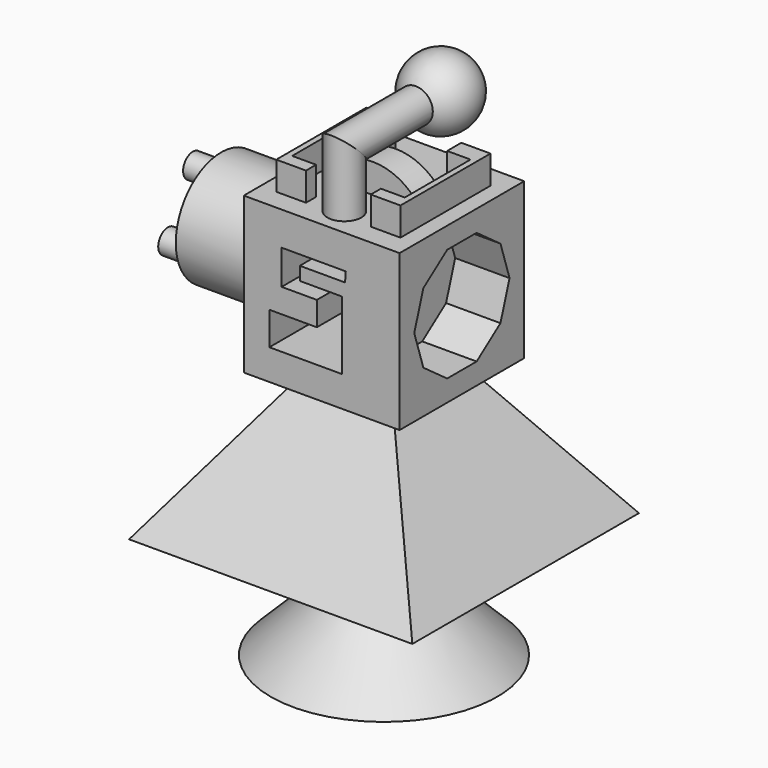
from build123d import *

# Parameters (mm, degrees)
F0_W      = 139.7
F0_H      = 139.7
F1_DEPTH  = 69.85
F3_DEPTH  = 69.85
F5_DEPTH  = 12.7
F6_R      = 50.8
F7_DEPTH  = 76.2
F9_DEPTH  = 48.768
F10_R     = 15.24
F13_W     = 76.2
F13_H     = 76.2
F15_W     = 254
F15_H     = 254
F22_DEPTH = 25.4
F23_R     = 10.8538573116
F24_DEPTH = 25.4


with BuildPart() as f1:
    # F0 (on Front) → F1 (new body, symmetric)
    with BuildSketch(Plane.XZ):
        Rectangle(F0_W, F0_H)
    extrude(amount=F1_DEPTH, both=True)

    # F2 (on Front) → F3 (cut, symmetric)
    with BuildSketch(Plane.XZ):
        Polygon((20.9614150226, 30.7766851038), (21.6268599033, 39.7601500154), (-35.9338596463, 39.7601500154), (-35.9338596463, 8.8171046227), (-4.3253740296, 8.8171046227), (-4.3253740296, -12.8097543493), (-46.9136498868, -12.8097543493), (-46.9136498868, -42.4219146371), (18.2996485382, -42.4219146371), (18.2996485382, 18.7987312675), (-19.6305345744, 18.7987312675), (-19.6305345744, 30.7766851038), align=None)
    extrude(amount=F3_DEPTH, both=True, mode=Mode.SUBTRACT)

    # F6 (on face) → F7 (join)
    with BuildSketch(Plane(origin=(-69.85, 0, 0), x_dir=(0, -1, 0), z_dir=(-1, 0, 0))):
        Circle(F6_R)
    extrude(amount=F7_DEPTH)

    # F8 (on face) → F9 (cut)
    with BuildSketch(Plane.YZ.offset(69.85)):
        Polygon((16.5059205686, -50.8), (43.2130610643, -31.3961266285), (53.4142809913, 0), (43.2130610643, 31.3961266285), (16.5059205686, 50.8), (-16.5059205686, 50.8), (-43.2130610643, 31.3961266285), (-53.4142809913, 0), (-43.2130610643, -31.3961266285), (-16.5059205686, -50.8), align=None)
    extrude(amount=-F9_DEPTH, mode=Mode.SUBTRACT)

    # F12: sweep along a path in F11
    with BuildLine(Plane.YZ) as f12_path:
        Line((-44.45, 69.9766054749), (-44.45, 120.7766054749))
        Line((-44.45, 120.7766054749), (44.45, 120.7766054749))
    # F10 (on face) → F12 (sweep)
    with BuildSketch(Plane.XY.offset(69.85)):
        with Locations((0, -44.45)):
            Circle(F10_R)
    sweep(path=f12_path.line, transition=Transition.RIGHT)

    # F13 (on face) → F16 section 0
    with BuildSketch(Plane(origin=(0, 0, -69.85), x_dir=(1, 0, 0), z_dir=(0, 0, -1))):
        Rectangle(F13_W, F13_H)
    # F15 (on offset) → F16 section 1
    with BuildSketch(Plane(origin=(0, 0, -196.85), x_dir=(1, 0, 0), z_dir=(0, 0, -1))):
        Rectangle(F15_W, F15_H)
    loft()

    # F17 (on Right) → F18 (revolve)
    with BuildSketch(Plane.YZ):
        with BuildLine():
            ThreePointArc((95.25, 120.65), (63.5, 152.4), (31.75, 120.65))
            Line((31.75, 120.65), (95.25, 120.65))
        make_face()
    revolve(axis=Axis((0, 63.5, 120.65), (0, 1, 0)))

    # F21 (on face) → F22 (join)
    with BuildSketch(Plane.XY.offset(69.85)):
        Polygon((-29.5170042189, 49.7313141823), (-55.6858405471, 49.7313141823), (-55.6858405471, -51.1500276625), (-29.0486328304, -51.1500276625), (-29.0486328304, -39.8150421679), (-50.4867191883, -39.8150421679), (-50.4867191883, 33.8623374701), (-29.5170042189, 33.8623374701), align=None)
        Polygon((29.5170042189, 33.8623374701), (50.4867191883, 33.8623374701), (50.4867191883, -39.8150421679), (29.0486328304, -39.8150421679), (29.0486328304, -51.1500276625), (55.6858405471, -51.1500276625), (55.6858405471, 49.7313141823), (29.5170042189, 49.7313141823), align=None)
    extrude(amount=F22_DEPTH)

    # F23 (on face) → F24 (join)
    with BuildSketch(Plane(origin=(-146.05, 0, 0), x_dir=(0, -1, 0), z_dir=(-1, 0, 0))):
        with Locations((0, 32.2307120148)):
            Circle(F23_R)
        with Locations((-27.9126153868, -16.1153560074)):
            Circle(F23_R)
        with Locations((27.9126153868, -16.1153560074)):
            Circle(F23_R)
    extrude(amount=F24_DEPTH)


with BuildPart() as f5:
    # F4 (on Front) → F5 (new body, symmetric)
    with BuildSketch(Plane.XZ):
        with BuildLine():
            Line((-44.45, 69.85), (44.45, 69.85))
            ThreePointArc((44.45, 69.85), (0, 96.0565557516), (-44.45, 69.85))
        make_face()
    extrude(amount=F5_DEPTH, both=True)


with BuildPart() as f20:
    # F19 (on Front) → F20 (revolve)
    with BuildSketch(Plane.XZ):
        Polygon((0, -298.45), (0, -196.85), (-101.6, -298.45), align=None)
    revolve(axis=Axis((0, 0, -247.65), (0, 0, -1)))


solid = Compound([f1.part, f5.part, f20.part])
